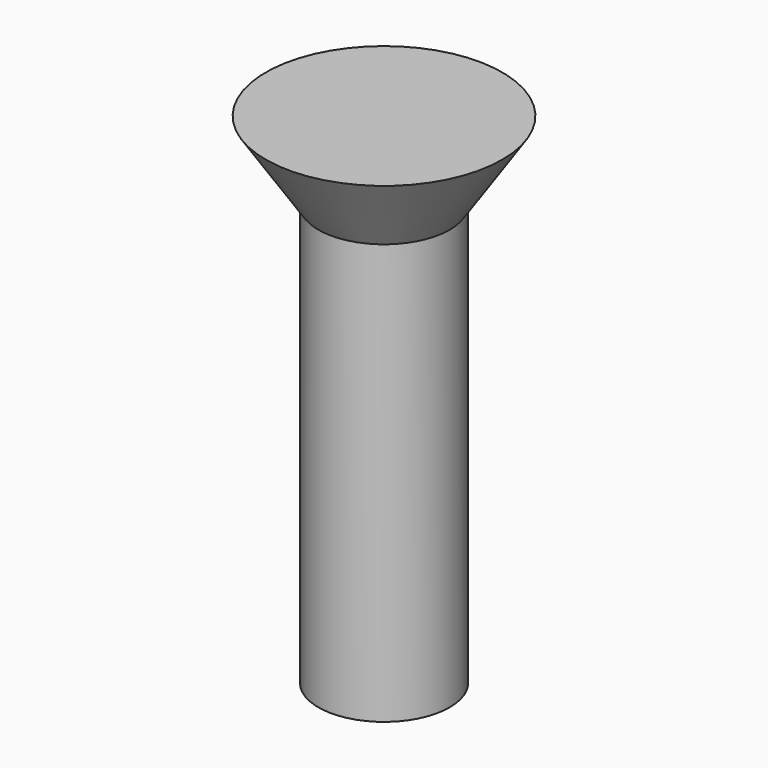
from build123d import *

# Parameters (mm, degrees)
CYLINDER011_R                   = 2.5
CYLINDER011_DEPTH               = 16
FUSION001018017_PLACEMENT_ANGLE = 180
CLONE021_PLACEMENT_ANGLE        = 180


with BuildPart() as cone003:
    # Cone003 → Cone003 (revolve)
    with BuildSketch(Plane(origin=(0, 0, -3), x_dir=(1, 0, 0), z_dir=(0, -1, 0))):
        Polygon((0, 0), (4.5, 0), (2.5, 3), (0, 3), align=None)
    revolve(axis=Axis((0, 0, -3), (0, 0, 1)))


with BuildPart() as obj1:
    # Cylinder011 → Cylinder011 (new body)
    with BuildSketch(Plane.XY):
        Circle(CYLINDER011_R)
    extrude(amount=CYLINDER011_DEPTH)

    # Fusion001018017: union Cone003
    add(cone003.part)


with BuildPart() as obj1_1:
    # Fusion001018017 placement: moved
    add(obj1.part.moved(Location((45, 15, 21))).rotate(Axis((45, 15, 21), (0, 1, 0)), FUSION001018017_PLACEMENT_ANGLE))


with BuildPart() as obj1_2:
    # Clone021 placement: moved
    add(obj1_1.part.moved(Location((90, 190, 0))).rotate(Axis((90, 190, 0), (0, 0, 1)), CLONE021_PLACEMENT_ANGLE))


solid = obj1_2.part
